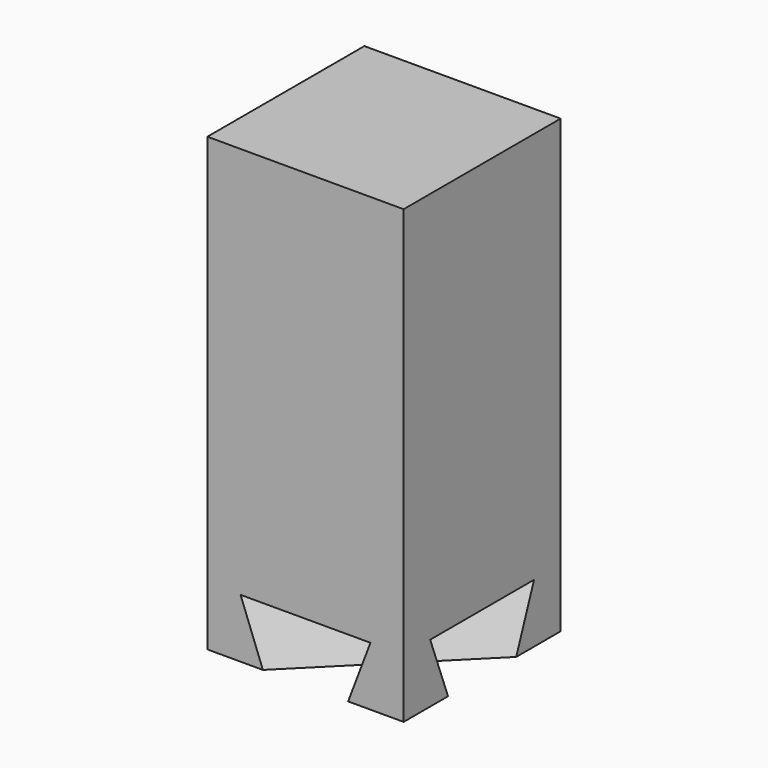
from build123d import *

# Parameters (mm, degrees)
F0_W     = 50
F0_H     = 50
F1_DEPTH = 100
F4_DEPTH = 50
F5_W     = 150
F5_H     = 150
F5_W_2   = 50
F5_H_2   = 50
F6_DEPTH = 15


with BuildPart() as f1:
    # F0 (on Top) → F1 (new body)
    with BuildSketch(Plane.XY):
        Rectangle(F0_W, F0_H)
    extrude(amount=F1_DEPTH)

    # F3 (on 3pt) → F4 (join, symmetric)
    with BuildSketch(Plane(origin=(0, 0, 0), x_dir=(0.7071067812, -0.7071067812, 0), z_dir=(-0.7071067812, -0.7071067812, 0))):
        Polygon((-29.3745769458, 0), (-35.3553390593, 0), (-35.3553390593, -15), (-25.3553390593, -15), align=None)
        Polygon((35.3553390593, -15), (35.3553390593, 0), (29.3745769458, 0), (25.3553390593, -15), align=None)
        Polygon((5.9807621135, 0), (-5.9807621135, 0), (-10, -15), (10, -15), align=None)
    extrude(amount=F4_DEPTH, both=True)

    # F5 (on face) → F6 (cut, through all)
    with BuildSketch(Plane(origin=(0, 0, 0), x_dir=(1, 0, 0), z_dir=(0, 0, -1))):
        Rectangle(F5_W, F5_H)
        Rectangle(F5_W_2, F5_H_2, mode=Mode.SUBTRACT)
    extrude(amount=F6_DEPTH, mode=Mode.SUBTRACT)


solid = f1.part
